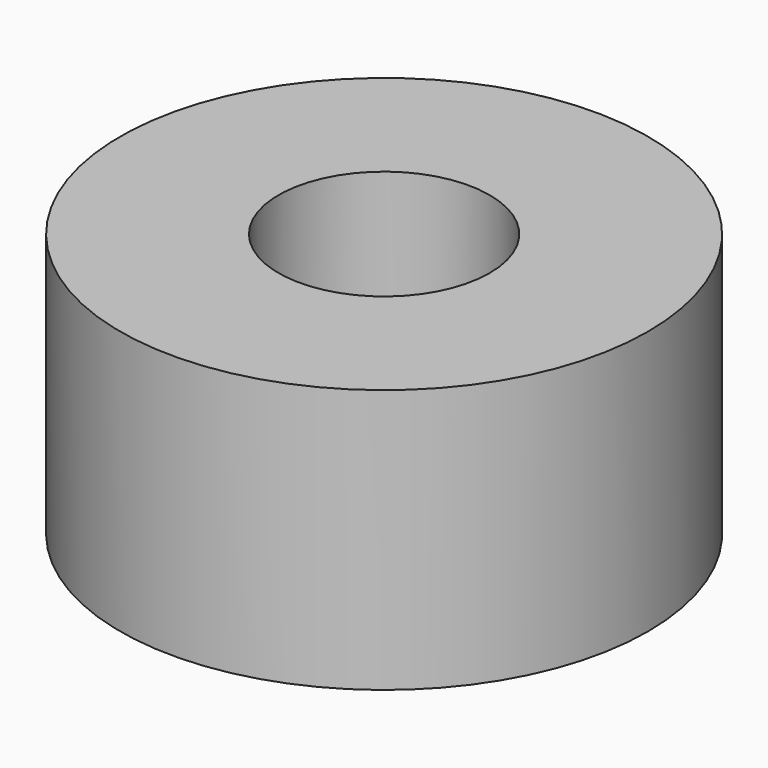
from build123d import *

# Parameters (mm, degrees)
SKETCH_R   = 10
SKETCH_R_2 = 4
PAD_DEPTH  = 10


with BuildPart() as part:
    # Sketch → Pad (new body)
    with BuildSketch(Plane.XY):
        Circle(SKETCH_R)
        Circle(SKETCH_R_2, mode=Mode.SUBTRACT)
    extrude(amount=PAD_DEPTH)


solid = part.part
